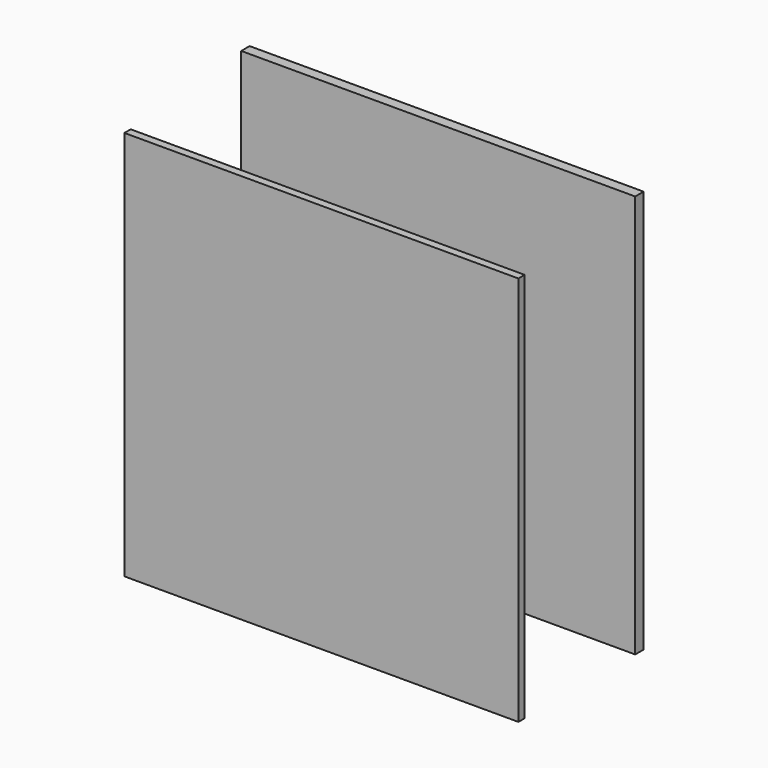
from build123d import *

# Parameters (mm, degrees)
F0_W     = 8
F0_H     = 307
F0_W_2   = 6
F0_H_2   = 297.24
F1_DEPTH = 300


with BuildPart() as f1:
    # F0 (on Right) → F1 (new body)
    with BuildSketch(Plane.YZ):
        with Locations((109.2, -143.74)):
            Rectangle(F0_W, F0_H)
        with Locations((-3, -148.62)):
            Rectangle(F0_W_2, F0_H_2)
    extrude(amount=-F1_DEPTH)


solid = f1.part
